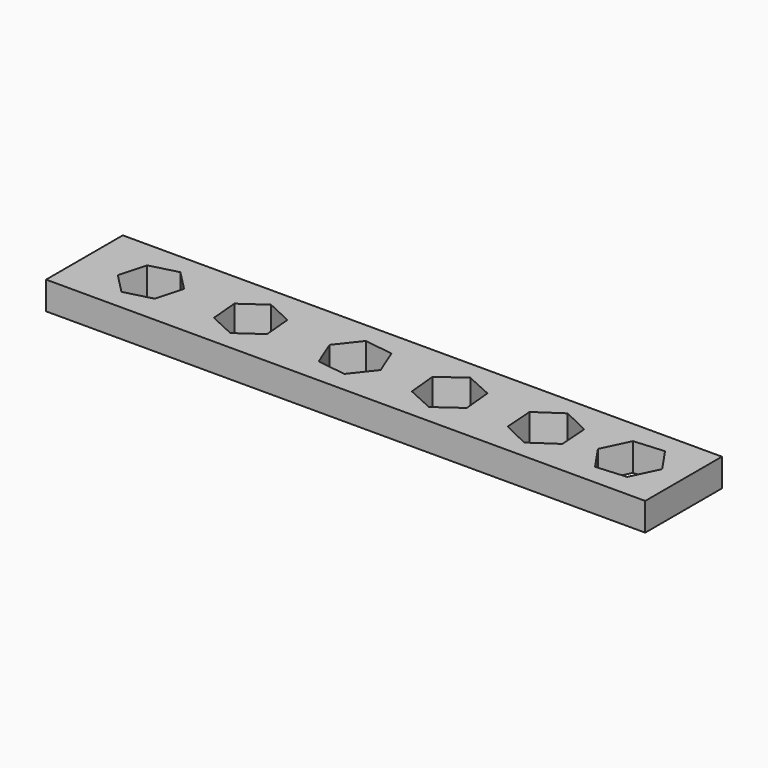
from build123d import *

# Parameters (mm, degrees)
F0_W     = 75
F0_H     = 12
F1_DEPTH = 3.5


with BuildPart() as f1:
    # F0 (on Top) → F1 (new body)
    with BuildSketch(Plane.XY):
        Rectangle(F0_W, F0_H)
        Polygon((4.848675, 1.529841), (7.858014, 3.682486), (11.226928, 2.152645), (11.586505, -1.529841), (8.577166, -3.682486), (5.208252, -2.152645), align=None, mode=Mode.SUBTRACT)
        Polygon((28.651247, 3.135238), (32.440021, 3.427111), (34.587178, 0.291873), (32.94556, -3.135238), (29.156786, -3.427111), (27.009629, -0.291873), align=None, mode=Mode.SUBTRACT)
        Polygon((-31.663274, 2.532883), (-28.226048, 3.420566), (-25.738679, 0.887684), (-26.688535, -2.532883), (-30.125761, -3.420566), (-32.61313, -0.887684), align=None, mode=Mode.SUBTRACT)
        Polygon((-19.953547, 1.516667), (-17.007614, 3.58584), (-13.742691, 2.069173), (-13.423701, -1.516667), (-16.369635, -3.58584), (-19.634558, -2.069173), align=None, mode=Mode.SUBTRACT)
        Polygon((-7.232641, 0.519536), (-4.976292, 3.388576), (-1.363456, 2.86904), (-0.006969, -0.519536), (-2.263319, -3.388576), (-5.876154, -2.86904), align=None, mode=Mode.SUBTRACT)
        Polygon((16.897125, 1.63779), (20.002216, 3.740386), (23.375663, 2.102596), (23.644019, -1.63779), (20.538928, -3.740386), (17.165481, -2.102596), align=None, mode=Mode.SUBTRACT)
    extrude(amount=F1_DEPTH)


solid = f1.part
